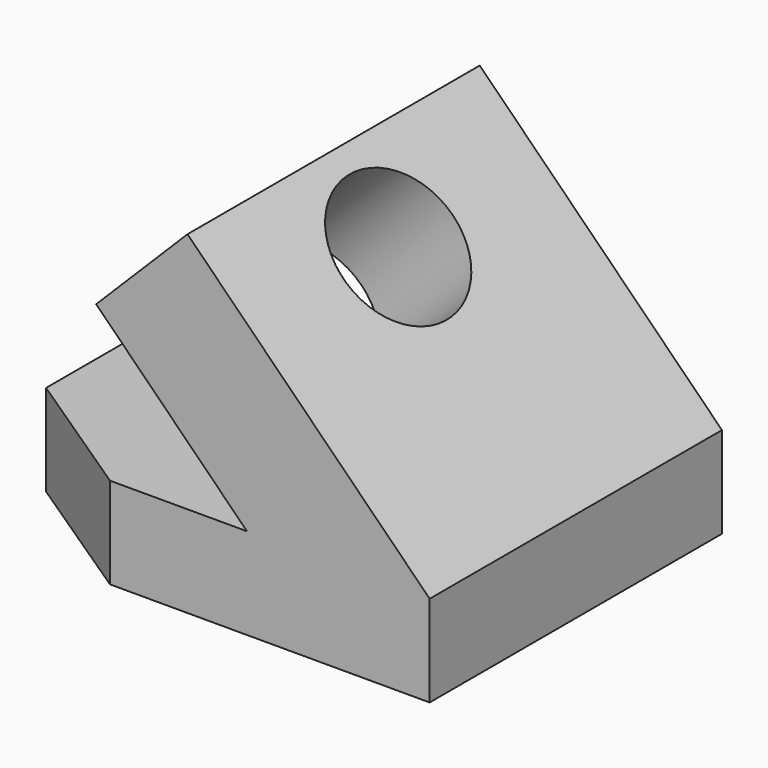
from build123d import *

# Parameters (mm, degrees)
F1_DEPTH      = 101.6
F3_DEPTH      = 50.801
F5_R          = 38.1
F6_DEPTH      = 101.6
F6_DEPTH_BACK = 101.6


with BuildPart() as f1:
    # F0 (on Front) → F1 (new body, symmetric)
    with BuildSketch(Plane.XZ):
        Polygon((0, 50.8), (0, 0), (254, 0), (254, 50.8), (119.296158184, 185.503841816), (68.496158184, 134.703841816), (152.4, 50.8), align=None)
    extrude(amount=F1_DEPTH, both=True)

    # F2 (on face) → F3 (cut, through all)
    with BuildSketch(Plane.XY.offset(50.8)):
        Polygon((76.2, 101.6), (0, 101.6), (0, 50.8), align=None)
        Polygon((76.2, -101.6), (0, -50.8), (0, -101.6), align=None)
    extrude(amount=-F3_DEPTH, mode=Mode.SUBTRACT)

    # F5 (on offset) → F6 (cut, two sides)
    with BuildSketch(Plane(origin=(170.3605122421, 0, 170.3605122421), x_dir=(0, 1, 0), z_dir=(0.7071067812, 0, 0.7071067812))) as f6_sk:
        with Locations((0, -3.9840979371)):
            Circle(F5_R)
    extrude(amount=F6_DEPTH, mode=Mode.SUBTRACT)
    extrude(f6_sk.sketch, amount=-F6_DEPTH_BACK, mode=Mode.SUBTRACT)


solid = f1.part
